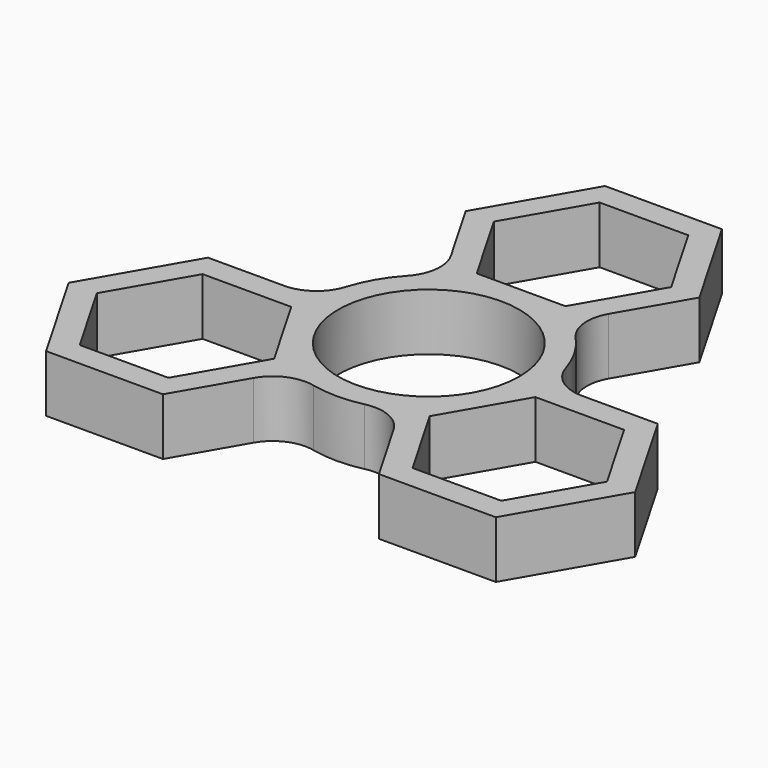
from build123d import *

# Parameters (mm, degrees)
F0_R     = 11.125
F1_DEPTH = 7


with BuildPart() as f1:
    # F0 (on Top) → F1 (new body)
    with BuildSketch(Plane.XY):
        with BuildLine():
            Line((7.176464, 36.03), (-7.176464, 36.03))
            Line((-7.176464, 36.03), (-14.352928, 23.6))
            Line((-14.352928, 23.6), (-9.68437, 15.51382))
            ThreePointArc((-9.68437, 15.51382), (-9.046046, 12.45302), (-10.350576, 9.611514))
            ThreePointArc((-10.350576, 9.611514), (-12.232609, 7.0625), (-13.499103, 4.158105))
            ThreePointArc((-13.499103, 4.158105), (-15.307655, 1.607595), (-18.277547, 0.63))
            Line((-18.277547, 0.63), (-27.614663, 0.63))
            Line((-27.614663, 0.63), (-34.791127, -11.8))
            Line((-34.791127, -11.8), (-27.614663, -24.23))
            Line((-27.614663, -24.23), (-13.261736, -24.23))
            Line((-13.261736, -24.23), (-8.593178, -16.14382))
            ThreePointArc((-8.593178, -16.14382), (-6.261609, -14.060615), (-3.148527, -13.769619))
            ThreePointArc((-3.148527, -13.769619), (0, -14.125), (3.148527, -13.769619))
            ThreePointArc((3.148527, -13.769619), (6.261609, -14.060615), (8.593178, -16.14382))
            Line((8.593178, -16.14382), (13.261736, -24.23))
            Line((13.261736, -24.23), (27.614663, -24.23))
            Line((27.614663, -24.23), (34.791127, -11.8))
            Line((34.791127, -11.8), (27.614663, 0.63))
            Line((27.614663, 0.63), (18.277547, 0.63))
            ThreePointArc((18.277547, 0.63), (15.307655, 1.607595), (13.499103, 4.158105))
            ThreePointArc((13.499103, 4.158105), (12.232609, 7.0625), (10.350576, 9.611514))
            ThreePointArc((10.350576, 9.611514), (9.046046, 12.45302), (9.68437, 15.51382))
            Line((9.68437, 15.51382), (14.352928, 23.6))
            Line((14.352928, 23.6), (7.176464, 36.03))
        make_face()
        Polygon((-31.327026, -11.8), (-25.882613, -2.37), (-14.993786, -2.37), (-9.549373, -11.8), (-14.993786, -21.23), (-25.882613, -21.23), align=None, mode=Mode.SUBTRACT)
        Polygon((25.882613, -21.23), (14.993786, -21.23), (9.549373, -11.8), (14.993786, -2.37), (25.882613, -2.37), (31.327026, -11.8), align=None, mode=Mode.SUBTRACT)
        Circle(F0_R, mode=Mode.SUBTRACT)
        Polygon((-10.888826, 23.6), (-5.444413, 33.03), (5.444413, 33.03), (10.888826, 23.6), (5.444413, 14.17), (-5.444413, 14.17), align=None, mode=Mode.SUBTRACT)
    extrude(amount=F1_DEPTH)


solid = f1.part
